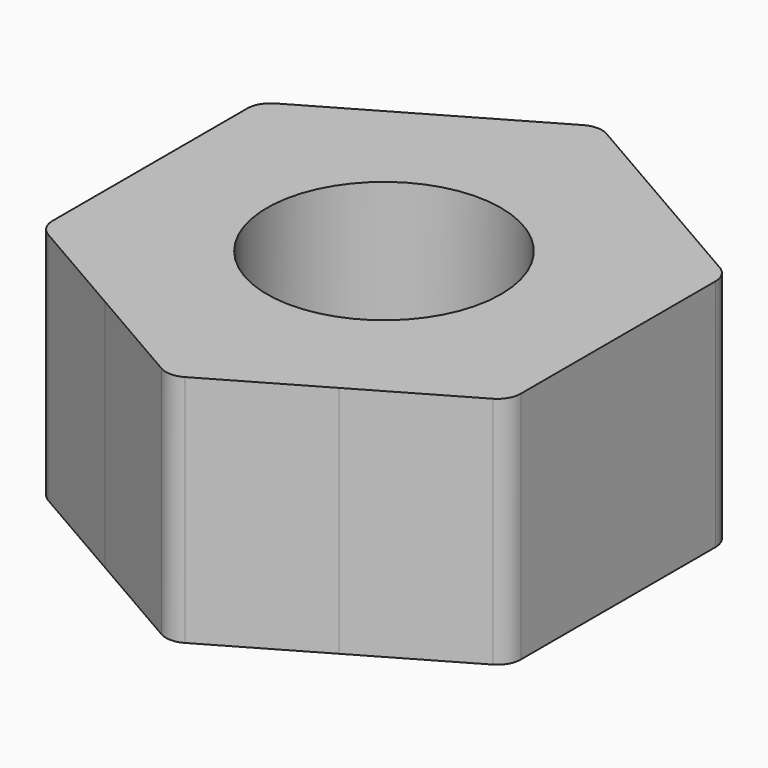
from build123d import *

# Parameters (mm, degrees)
F0_R     = 6.35
F1_DEPTH = 12.7
F2_R     = 1.27


with BuildPart() as f1:
    # F0 (on Top) → F1 (new body)
    with BuildSketch(Plane.XY):
        with BuildLine():
            ThreePointArc((6.3499999966, -10.99852263), (10.9985226271, -6.3500000017), (12.7, 0))
            ThreePointArc((12.7, 0), (10.9985227204, 6.34999984), (6.35000032, 10.9985224433))
            ThreePointArc((6.35000032, 10.9985224433), (1.4e-09, 12.7), (-6.3500003177, 10.9985224446))
            ThreePointArc((-6.3500003177, 10.9985224446), (-10.9985227198, 6.3499998412), (-12.7, 0))
            ThreePointArc((-12.7, 0), (-10.998522762, -6.349999768), (-6.350000464, -10.9985223601))
            ThreePointArc((-6.350000464, -10.9985223601), (-2.698e-07, -12.7), (6.3499999966, -10.99852263))
        make_face()
        Circle(F0_R, mode=Mode.SUBTRACT)
        with BuildLine():
            Line((12.7, -7.3323484187), (12.7, 0))
            ThreePointArc((12.7, 0), (10.9985226271, -6.3500000017), (6.3499999966, -10.99852263))
            Line((6.3499999966, -10.99852263), (12.7, -7.3323484187))
        make_face()
        with BuildLine():
            ThreePointArc((6.35000032, 10.9985224433), (10.9985227204, 6.34999984), (12.7, 0))
            Line((12.7, 0), (12.7, 7.3323484187))
            Line((12.7, 7.3323484187), (6.35000032, 10.9985224433))
        make_face()
        with BuildLine():
            ThreePointArc((-6.3500003177, 10.9985224446), (1.4e-09, 12.7), (6.35000032, 10.9985224433))
            Line((6.35000032, 10.9985224433), (0, 14.6646968374))
            Line((0, 14.6646968374), (-6.3500003177, 10.9985224446))
        make_face()
        with BuildLine():
            Line((0, -14.6646968374), (6.3499999966, -10.99852263))
            ThreePointArc((6.3499999966, -10.99852263), (-2.698e-07, -12.7), (-6.350000464, -10.9985223601))
            Line((-6.350000464, -10.9985223601), (0, -14.6646968374))
        make_face()
        with BuildLine():
            ThreePointArc((-12.7, 0), (-10.9985227198, 6.3499998412), (-6.3500003177, 10.9985224446))
            Line((-6.3500003177, 10.9985224446), (-12.7, 7.3323484187))
            Line((-12.7, 7.3323484187), (-12.7, 0))
        make_face()
        with BuildLine():
            Line((-12.7, -7.3323484187), (-6.350000464, -10.9985223601))
            ThreePointArc((-6.350000464, -10.9985223601), (-10.998522762, -6.349999768), (-12.7, 0))
            Line((-12.7, 0), (-12.7, -7.3323484187))
        make_face()
    extrude(amount=F1_DEPTH)

    # F2
    f2_edges = [f1.edges().sort_by_distance(p)[0] for p in [
        (-12.7, -7.332348, 6.35),
        (0, -14.664697, 6.35),
        (12.7, -7.332348, 6.35),
        (12.7, 7.332348, 6.35),
        (0, 14.664697, 6.35),
        (-12.7, 7.332348, 6.35),
    ]]
    fillet(f2_edges, radius=F2_R)


solid = f1.part
